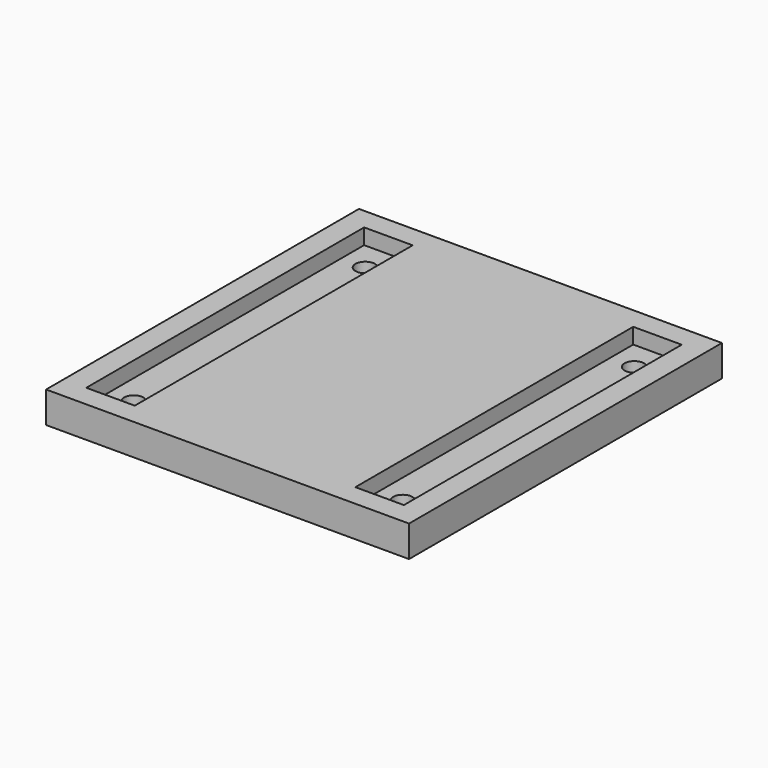
from build123d import *

# Parameters (mm, degrees)
F0_W     = 46.4
F0_H     = 50
F0_W_2   = 6.2
F0_H_2   = 44.4
F0_R     = 1.25
F1_DEPTH = 2
F2_DEPTH = 2


with BuildPart() as f1:
    # F0 (on Top) → F1 (new body)
    with BuildSketch(Plane.XY):
        Rectangle(F0_W, F0_H)
        with Locations((-17.2, 0)):
            Rectangle(F0_W_2, F0_H_2, mode=Mode.SUBTRACT)
        with Locations((17.2, 0)):
            Rectangle(F0_W_2, F0_H_2, mode=Mode.SUBTRACT)
        with Locations((-17.2, 0)):
            Rectangle(F0_W_2, F0_H_2)
        with Locations((-17.2, -18.5)):
            Circle(F0_R, mode=Mode.SUBTRACT)
        with Locations((-17.2, 18.5)):
            Circle(F0_R, mode=Mode.SUBTRACT)
        with Locations((17.2, 0)):
            Rectangle(F0_W_2, F0_H_2)
        with Locations((17.2, -18.5)):
            Circle(F0_R, mode=Mode.SUBTRACT)
        with Locations((17.2, 18.5)):
            Circle(F0_R, mode=Mode.SUBTRACT)
    extrude(amount=-F1_DEPTH)

    # F0 (on Top) → F2 (join)
    with BuildSketch(Plane.XY):
        Rectangle(F0_W, F0_H)
        with Locations((-17.2, 0)):
            Rectangle(F0_W_2, F0_H_2, mode=Mode.SUBTRACT)
        with Locations((17.2, 0)):
            Rectangle(F0_W_2, F0_H_2, mode=Mode.SUBTRACT)
    extrude(amount=F2_DEPTH)


solid = f1.part
